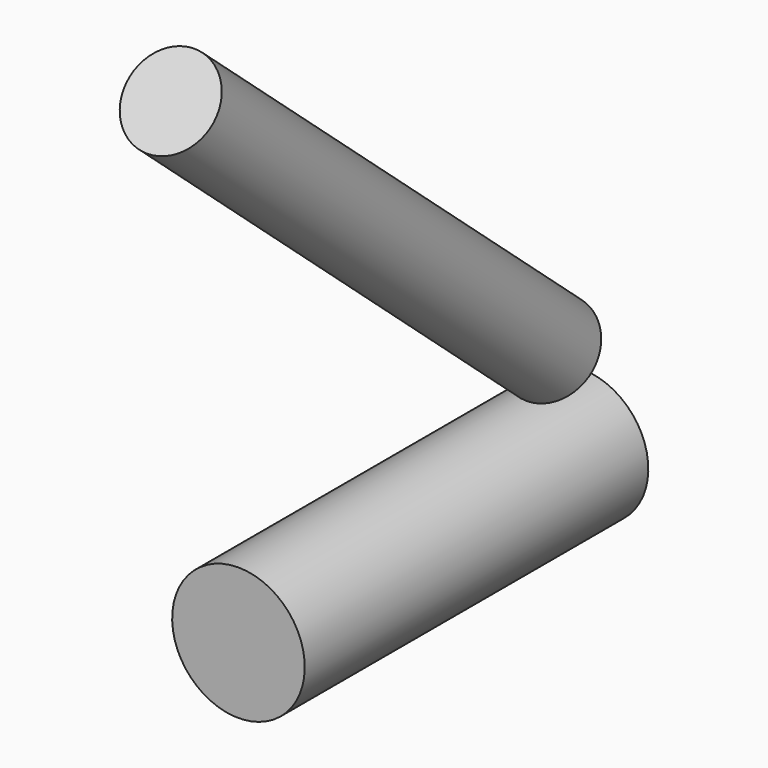
from build123d import *

# Parameters (mm, degrees)
F0_W = 49.9002970755
F0_H = 7.703313604


with BuildPart() as f1:
    # F0 (on Right) → F1 (revolve)
    with BuildSketch(Plane.YZ):
        with Locations((62.5115092844, -27.1498644724)):
            Rectangle(F0_W, F0_H)
    revolve(axis=Axis((0, 62.5115092844, -31.0015212744), (0, -1, 0)))


with BuildPart() as f3:
    # F2 (on Right) → F3 (revolve)
    with BuildSketch(Plane.YZ):
        Polygon((79.4073939323, -23.2812464237), (87.4340459704, -23.2812464237), (27.7283135802, 28.3962842077), (24.2905366899, 24.4244421998), align=None)
    revolve(axis=Axis((0, 57.5811797753, 2.557518892), (0, -0.7561116031, 0.654442697)))


solid = Compound([f1.part, f3.part])
